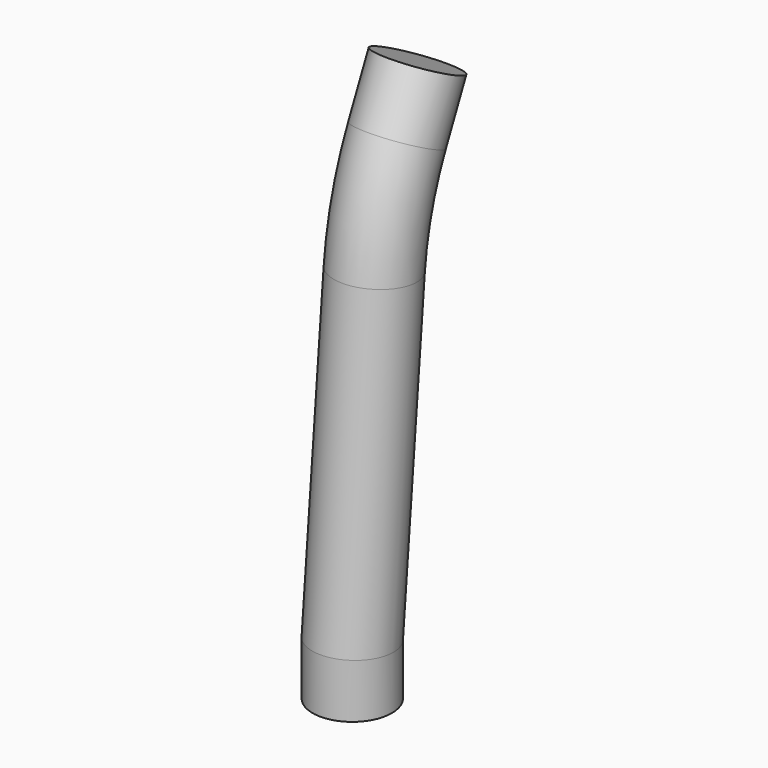
from build123d import *

# Parameters (mm, degrees)
F1_R = 9.525


with BuildPart() as f2:
    # F2: sweep along a path in F0
    with BuildLine(Plane.YZ) as f2_path:
        Line((19.6219567046, 127), (13.4560901463, 113.7772564949))
        ThreePointArc((13.4560901463, 113.7772564949), (8.9131955553, 101.295756187), (6.6067075239, 88.2150125476))
        Line((6.6067075239, 88.2150125476), (0, 12.7))
        Line((0, 12.7), (0, 0))
    # F1 (on Top) → F2 (sweep)
    with BuildSketch(Plane.XY):
        Circle(F1_R)
    sweep(path=f2_path.line, transition=Transition.RIGHT)


solid = f2.part
